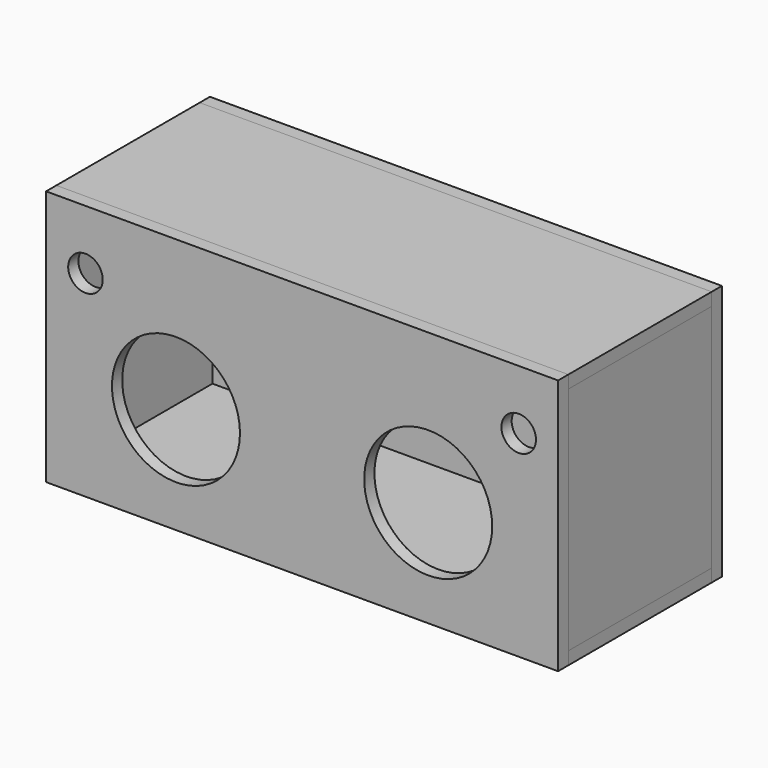
from build123d import *

# Parameters (mm, degrees)
F0_W     = 254
F0_H     = 127
F0_R     = 31.75
F0_R_2   = 8.5725
F1_DEPTH = 6.35
F2_W     = 254
F2_H     = 88.9
F3_DEPTH = 6.35
F4_W     = 254
F4_H     = 6.35
F5_DEPTH = 127
F6_W     = 254
F6_H     = 6.35
F7_DEPTH = 88.9
F8_W     = 6.35
F8_H     = 88.9
F9_DEPTH = 114.3


with BuildPart() as f1:
    # F0 (on Front) → F1 (new body)
    with BuildSketch(Plane.XZ):
        Rectangle(F0_W, F0_H)
        with Locations((-62.5647103226, -10.8585)):
            Circle(F0_R, mode=Mode.SUBTRACT)
        with Locations((62.5647103226, -10.8585)):
            Circle(F0_R, mode=Mode.SUBTRACT)
        with Locations((-107.4659909279, 34.0427806053)):
            Circle(F0_R_2, mode=Mode.SUBTRACT)
        with Locations((107.4659909279, 34.0427806053)):
            Circle(F0_R_2, mode=Mode.SUBTRACT)
    extrude(amount=F1_DEPTH)


with BuildPart() as f3:
    # F2 (on face) → F3 (new body)
    with BuildSketch(Plane(origin=(0, 0, -63.5), x_dir=(1, 0, 0), z_dir=(0, 0, -1))):
        with Locations((0, -44.45)):
            Rectangle(F2_W, F2_H)
    extrude(amount=-F3_DEPTH)


with BuildPart() as f5:
    # F4 (on face) → F5 (new body)
    with BuildSketch(Plane(origin=(0, 0, -63.5), x_dir=(1, 0, 0), z_dir=(0, 0, -1))):
        with Locations((0, -92.075)):
            Rectangle(F4_W, F4_H)
    extrude(amount=-F5_DEPTH)


with BuildPart() as f7:
    # F6 (on face) → F7 (new body, through all)
    with BuildSketch(Plane.XZ.offset(-88.9)):
        with Locations((0, 60.325)):
            Rectangle(F6_W, F6_H)
    extrude(amount=F7_DEPTH)


with BuildPart() as f9:
    # F8 (on face) → F9 (new body, through all)
    with BuildSketch(Plane(origin=(0, 0, 57.15), x_dir=(1, 0, 0), z_dir=(0, 0, -1))):
        with Locations((-123.825, -44.45)):
            Rectangle(F8_W, F8_H)
    extrude(amount=F9_DEPTH)


with BuildPart() as f9b:
    # F8 (on face) → F9, piece 2 (new body, through all)
    with BuildSketch(Plane(origin=(0, 0, 57.15), x_dir=(1, 0, 0), z_dir=(0, 0, -1))):
        with Locations((123.825, -44.45)):
            Rectangle(F8_W, F8_H)
    extrude(amount=F9_DEPTH)


solid = Compound([f1.part, f3.part, f5.part, f7.part, f9.part, f9b.part])
